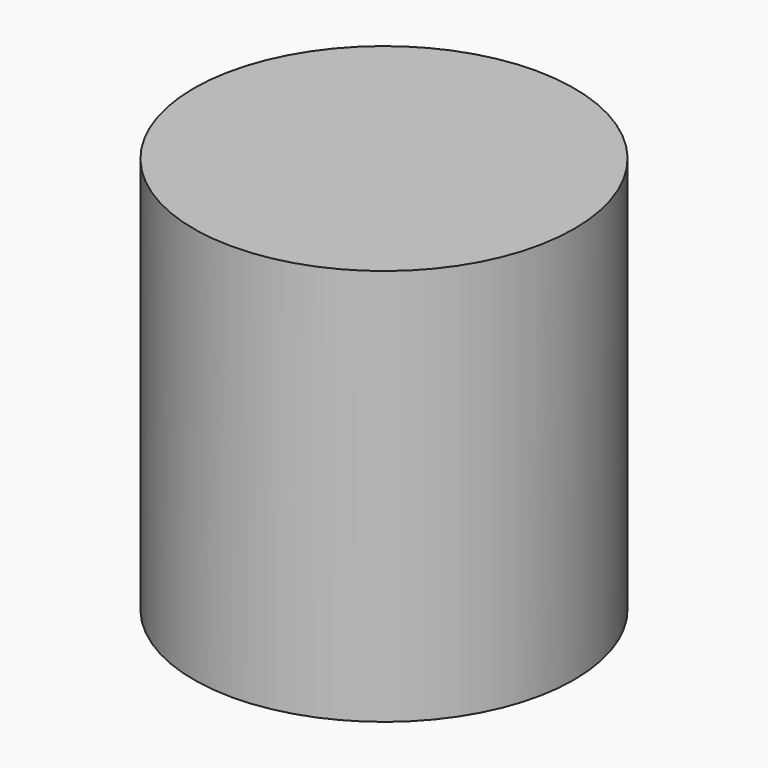
from build123d import *

# Parameters (mm, degrees)
F0_R     = 12.172538
F1_DEPTH = 25.4


with BuildPart() as f1:
    # F0 (on Top) → F1 (new body)
    with BuildSketch(Plane.XY):
        with Locations((-61.652437, -50.476115)):
            Circle(F0_R)
    extrude(amount=-F1_DEPTH)


solid = f1.part
